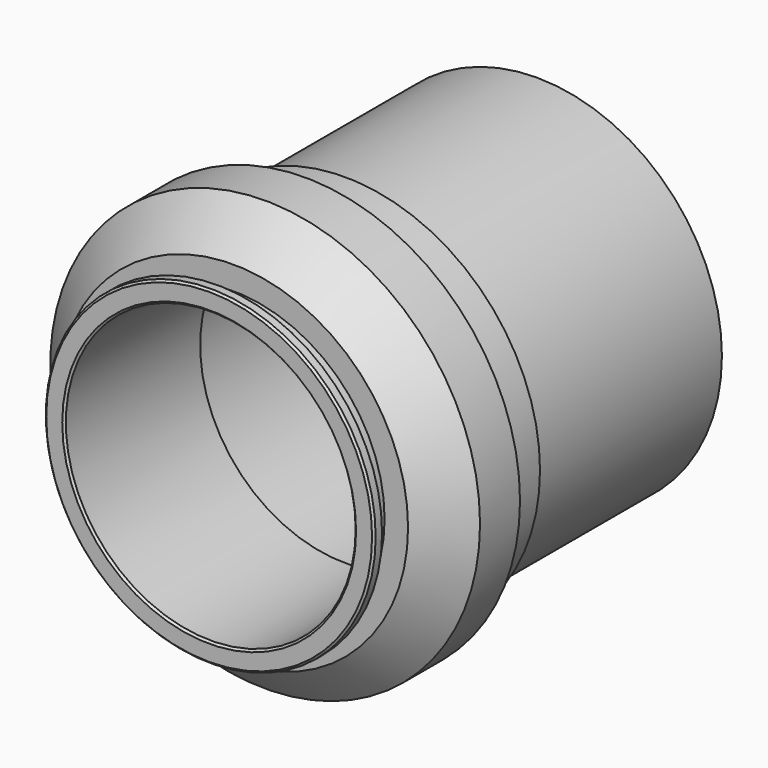
from build123d import *

# Parameters (mm, degrees)
F0_R      = 9.25
F0_R_2    = 7.75
F1_DEPTH  = 12
F2_R      = 9.75
F2_R_2    = 7.25
F3_DEPTH  = 2.5
F4_R      = 10.75
F4_R_2    = 7.25
F5_DEPTH  = 4.5
F6_SIZE   = 2
F7_R      = 7.5767654437
F7_R_2    = 7.25
F8_DEPTH  = 1
F9_R      = 8.25
F9_R_2    = 7.5767654437
F9_R_3    = 7.25
F10_DEPTH = 0.5
F11_SIZE  = 0.1


with BuildPart() as f1:
    # F0 (on Front) → F1 (new body)
    with BuildSketch(Plane.XZ):
        Circle(F0_R)
        Circle(F0_R_2, mode=Mode.SUBTRACT)
    extrude(amount=F1_DEPTH)

    # F2 (on face) → F3 (join)
    with BuildSketch(Plane.XZ.offset(12)):
        Circle(F2_R)
        Circle(F2_R_2, mode=Mode.SUBTRACT)
    extrude(amount=F3_DEPTH)

    # F4 (on face) → F5 (join)
    with BuildSketch(Plane.XZ.offset(14.5)):
        Circle(F4_R)
        Circle(F4_R_2, mode=Mode.SUBTRACT)
    extrude(amount=F5_DEPTH)

    # F6
    f6_edges = [f1.edges().sort_by_distance(p)[0] for p in [
        (-10.75, -19, 0),
    ]]
    chamfer(f6_edges, length=F6_SIZE)

    # F7 (on face) → F8 (join)
    with BuildSketch(Plane.XZ.offset(19)):
        Circle(F7_R)
        Circle(F7_R_2, mode=Mode.SUBTRACT)
    extrude(amount=F8_DEPTH)

    # F9 (on face) → F10 (join)
    with BuildSketch(Plane.XZ.offset(20)):
        Circle(F9_R)
        Circle(F9_R_2, mode=Mode.SUBTRACT)
        Circle(F9_R_2)
        Circle(F9_R_3, mode=Mode.SUBTRACT)
    extrude(amount=F10_DEPTH)

    # F11
    f11_edges = [f1.edges().sort_by_distance(p)[0] for p in [
        (-7.25, -20.5, 0),
        (-8.25, -20.5, 0),
    ]]
    chamfer(f11_edges, length=F11_SIZE)


solid = f1.part
